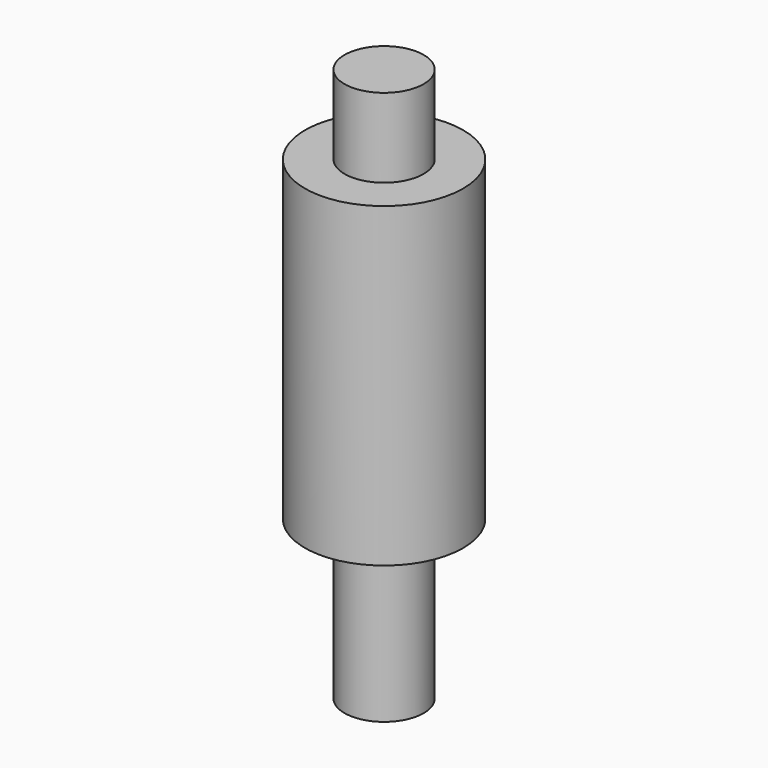
from build123d import *

# Parameters (mm, degrees)
F0_R          = 0.5
F1_DEPTH      = 5
F1_DEPTH_BACK = 2
F2_R          = 1
F3_DEPTH      = 4


with BuildPart() as f1:
    # F0 (on Top) → F1 (new body, two sides)
    with BuildSketch(Plane.XY) as f1_sk:
        Circle(F0_R)
    extrude(amount=F1_DEPTH)
    extrude(f1_sk.sketch, amount=-F1_DEPTH_BACK)


with BuildPart() as f3:
    # F2 (on Top) → F3 (new body)
    with BuildSketch(Plane.XY):
        Circle(F2_R)
    extrude(amount=F3_DEPTH)


solid = Compound([f1.part, f3.part])
